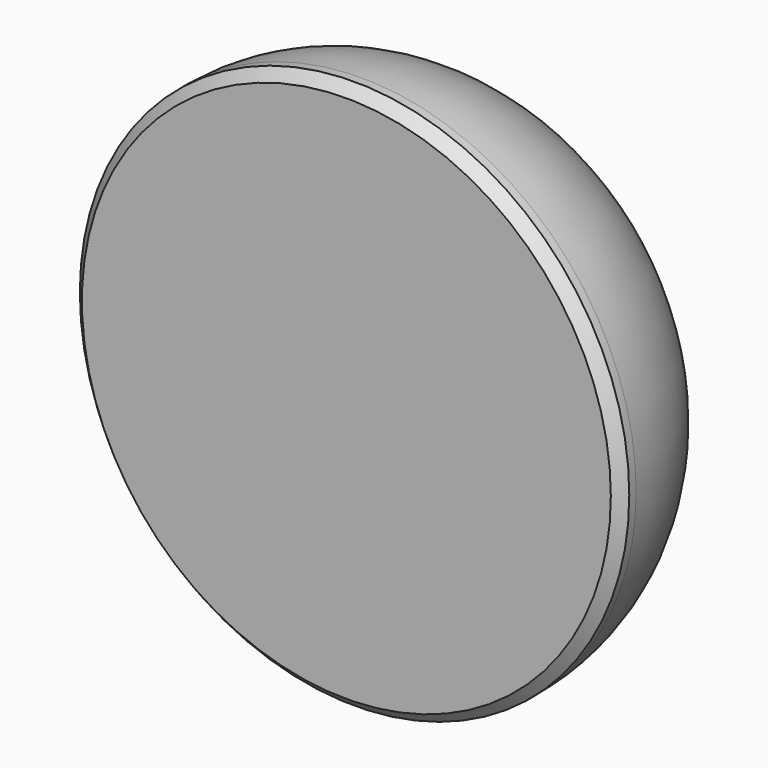
from build123d import *

# Parameters (mm, degrees)
F0_R     = 133.969332
F1_DEPTH = 100
F2_SIZE  = 5
F3_R     = 90.81794


with BuildPart() as f1:
    # F0 (on Front) → F1 (new body)
    with BuildSketch(Plane.XZ):
        Circle(F0_R)
    extrude(amount=F1_DEPTH)

    # F2
    f2_edges = [f1.edges().sort_by_distance(p)[0] for p in [
        (-133.969332, -100, 0),
    ]]
    chamfer(f2_edges, length=F2_SIZE)

    # F3
    f3_edges = [f1.edges().sort_by_distance(p)[0] for p in [
        (-133.969332, 0, 0),
    ]]
    fillet(f3_edges, radius=F3_R)


solid = f1.part
